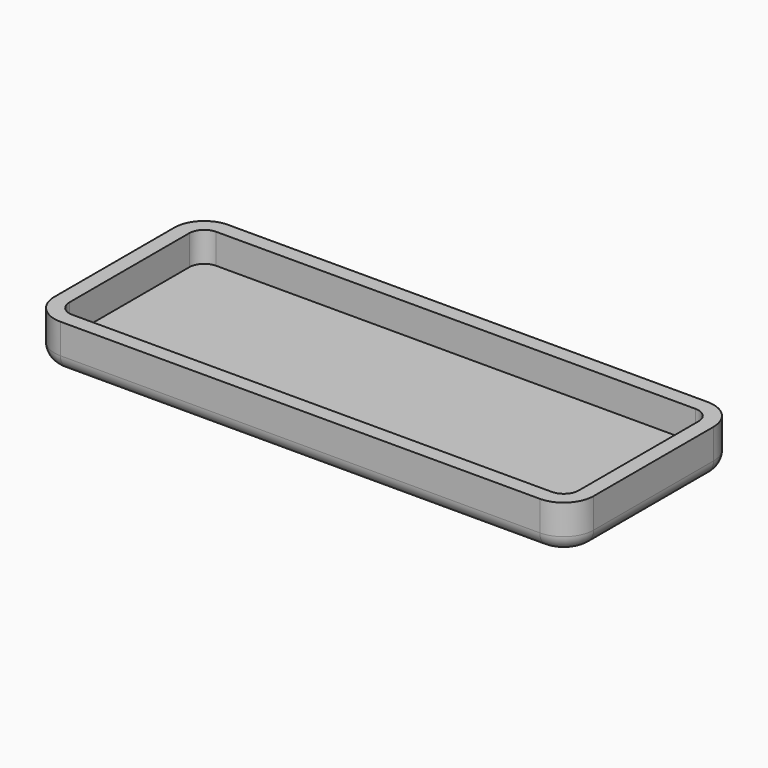
from build123d import *

# Parameters (mm, degrees)
F1_DEPTH = 3.81
F2_T     = -1.27
F3_R     = 1.27


with BuildPart() as f1:
    # F0 (on Top) → F1 (new body)
    with BuildSketch(Plane.XY):
        with BuildLine():
            ThreePointArc((22.86, 6.35), (22.116051, 8.146051), (20.32, 8.89))
            Line((20.32, 8.89), (-20.32, 8.89))
            ThreePointArc((-20.32, 8.89), (-22.116051, 8.146051), (-22.86, 6.35))
            Line((-22.86, 6.35), (-22.86, -6.35))
            ThreePointArc((-22.86, -6.35), (-22.116051, -8.146051), (-20.32, -8.89))
            Line((-20.32, -8.89), (20.32, -8.89))
            ThreePointArc((20.32, -8.89), (22.116051, -8.146051), (22.86, -6.35))
            Line((22.86, -6.35), (22.86, 6.35))
        make_face()
    extrude(amount=F1_DEPTH)

    # F2
    f2_openings = [f1.faces().sort_by_distance(p)[0] for p in [
        (0, 0, 3.81),
    ]]
    offset(amount=F2_T, openings=f2_openings)

    # F3
    f3_edges = [f1.edges().sort_by_distance(p)[0] for p in [
        (0, -8.89, 0),
    ]]
    fillet(f3_edges, radius=F3_R)


solid = f1.part
